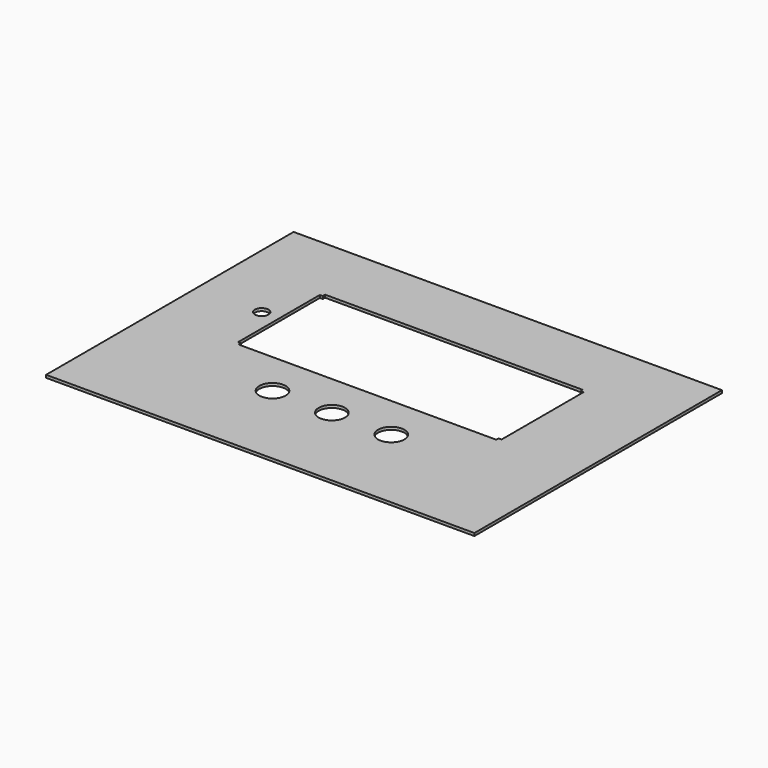
from build123d import *

# Parameters (mm, degrees)
SKETCH_W        = 157.8
SKETCH_H        = 114
PAD_DEPTH       = 1
POCKET001_DEPTH = 1.001
POCKET002_DEPTH = 1.001


with BuildPart() as part:
    # Sketch → Pad (new body)
    with BuildSketch(Plane.XY):
        with Locations((0, 19)):
            Rectangle(SKETCH_W, SKETCH_H)
    extrude(amount=PAD_DEPTH)

    # Sketch026 (on Face6 of Pad) → Pocket001 (cut, through all)
    with BuildSketch(Plane(origin=(0, 15, 1), x_dir=(1, 0, 0), z_dir=(0, 0, 1))):
        with BuildLine():
            add(Edge.make_bspline(
                [(-48.4861, 35.05146), (-47.40406, 35.05146)],
                knots=[0, 0, 426, 426], degree=1))
            add(Edge.make_bspline(
                [(-47.40406, 35.05146), (-47.40406, 36.13096)],
                knots=[0, 0, 425, 425], degree=1))
            add(Edge.make_bspline(
                [(-47.40406, 36.13096), (47.5386, 36.13096)],
                knots=[0, 0, 37379, 37379], degree=1))
            add(Edge.make_bspline(
                [(47.5386, 36.13096), (47.5386, 35.05146)],
                knots=[0, 0, 425, 425], degree=1))
            add(Edge.make_bspline(
                [(47.5386, 35.05146), (48.61556, 35.05146)],
                knots=[0, 0, 424, 424], degree=1))
            add(Edge.make_bspline(
                [(48.61556, -2.5888), (48.61556, 35.05146)],
                knots=[0, 0, 14819, 14819], degree=1))
            add(Edge.make_bspline(
                [(48.61556, -2.5888), (47.54114, -2.5888)],
                knots=[0, 0, 423, 423], degree=1))
            add(Edge.make_bspline(
                [(47.54114, -2.5888), (47.54114, -3.6683)],
                knots=[0, 0, 425, 425], degree=1))
            add(Edge.make_bspline(
                [(-47.4066, -3.6683), (47.54114, -3.6683)],
                knots=[0, 0, 37381, 37381], degree=1))
            add(Edge.make_bspline(
                [(-47.4066, -3.6683), (-47.4066, -2.5888)],
                knots=[0, 0, 425, 425], degree=1))
            add(Edge.make_bspline(
                [(-47.4066, -2.5888), (-48.4861, -2.5888)],
                knots=[0, 0, 425, 425], degree=1))
            add(Edge.make_bspline(
                [(-48.4861, 35.05146), (-48.4861, -2.5888)],
                knots=[0, 0, 14819, 14819], degree=1))
        make_face()
    extrude(amount=-POCKET001_DEPTH, mode=Mode.SUBTRACT)

    # Sketch013 → Pocket002 (cut, through all)
    with BuildSketch(Plane(origin=(0, 15, 1), x_dir=(1, 0, 0), z_dir=(0, 0, 1))):
        with BuildLine():
            add(Edge.make_bspline(
                [(-52.3615, 16.258), (-52.3615, 20.588127), (-56.1115, 18.423064), (-59.8615, 16.258), (-56.1115, 14.092936), (-52.3615, 11.927873), (-52.3615, 16.258)],
                knots=[0, 0, 0, 2.094395, 2.094395, 4.18879, 4.18879, 6.283185, 6.283185, 6.283185], degree=2, weights=[1, 0.5, 1, 0.5, 1, 0.5, 1]))
        make_face()
        with BuildLine():
            add(Edge.make_bspline(
                [(-16.971939, -20.064), (-16.971939, -11.663548), (-24.246944, -15.863774), (-31.521948, -20.064), (-24.246944, -24.264226), (-16.971939, -28.464452), (-16.971939, -20.064)],
                knots=[0, 0, 0, 2.094395, 2.094395, 4.18879, 4.18879, 6.283185, 6.283185, 6.283185], degree=2, weights=[1, 0.5, 1, 0.5, 1, 0.5, 1]))
        make_face()
        with BuildLine():
            add(Edge.make_bspline(
                [(4.893905, -20.064), (4.893905, -11.663548), (-2.3811, -15.863774), (-9.656104, -20.064), (-2.3811, -24.264226), (4.893905, -28.464452), (4.893905, -20.064)],
                knots=[0, 0, 0, 2.094395, 2.094395, 4.18879, 4.18879, 6.283185, 6.283185, 6.283185], degree=2, weights=[1, 0.5, 1, 0.5, 1, 0.5, 1]))
        make_face()
        with BuildLine():
            add(Edge.make_bspline(
                [(26.760003, -20.064), (26.760003, -11.663548), (19.484998, -15.863774), (12.209994, -20.064), (19.484998, -24.264226), (26.760003, -28.464452), (26.760003, -20.064)],
                knots=[0, 0, 0, 2.094395, 2.094395, 4.18879, 4.18879, 6.283185, 6.283185, 6.283185], degree=2, weights=[1, 0.5, 1, 0.5, 1, 0.5, 1]))
        make_face()
    extrude(amount=-POCKET002_DEPTH, mode=Mode.SUBTRACT)


solid = part.part
